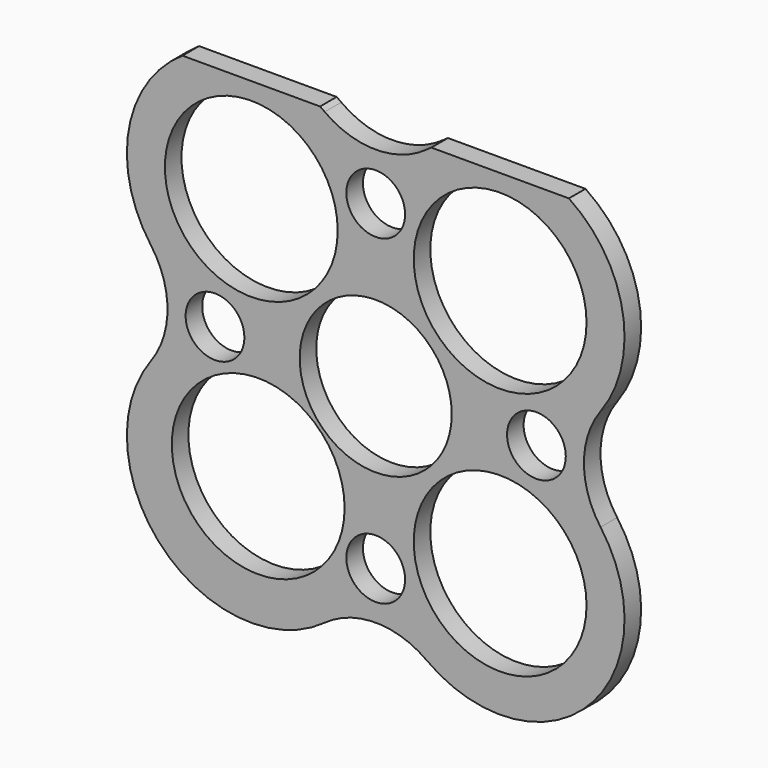
from build123d import *

# Parameters (mm, degrees)
F0_R     = 12.5
F0_R_2   = 4.25
F0_R_3   = 11
F1_DEPTH = 3


with BuildPart() as f1:
    # F0 (on Front) → F1 (new body)
    with BuildSketch(Plane.XZ):
        with BuildLine():
            ThreePointArc((32.531102, -7.377049), (30.122145, 0), (32.531102, 7.377049))
            ThreePointArc((32.531102, 7.377049), (35.719014, 21.168052), (27.949874, 33))
            Line((27.949874, 33), (8.050126, 33))
            ThreePointArc((8.050126, 33), (7.710916, 32.769386), (7.377049, 32.531102))
            ThreePointArc((7.377049, 32.531102), (0, 30.122145), (-7.377049, 32.531102))
            ThreePointArc((-7.377049, 32.531102), (-7.710916, 32.769386), (-8.050126, 33))
            Line((-8.050126, 33), (-27.949874, 33))
            ThreePointArc((-27.949874, 33), (-35.719014, 21.168052), (-32.531102, 7.377049))
            ThreePointArc((-32.531102, 7.377049), (-30.122145, 0), (-32.531102, -7.377049))
            ThreePointArc((-32.531102, -7.377049), (-30.727922, -30.727922), (-7.377049, -32.531102))
            ThreePointArc((-7.377049, -32.531102), (0, -30.122145), (7.377049, -32.531102))
            ThreePointArc((7.377049, -32.531102), (30.727922, -30.727922), (32.531102, -7.377049))
        make_face()
        with Locations((-17, -17)):
            Circle(F0_R, mode=Mode.SUBTRACT)
        with Locations((0, -23.25)):
            Circle(F0_R_2, mode=Mode.SUBTRACT)
        with Locations((18, -18)):
            Circle(F0_R, mode=Mode.SUBTRACT)
        with Locations((-23.25, 0)):
            Circle(F0_R_2, mode=Mode.SUBTRACT)
        with Locations((-18, 18)):
            Circle(F0_R, mode=Mode.SUBTRACT)
        Circle(F0_R_3, mode=Mode.SUBTRACT)
        with Locations((23.25, 0)):
            Circle(F0_R_2, mode=Mode.SUBTRACT)
        with Locations((0, 23.25)):
            Circle(F0_R_2, mode=Mode.SUBTRACT)
        with Locations((18, 18)):
            Circle(F0_R, mode=Mode.SUBTRACT)
    extrude(amount=F1_DEPTH)


solid = f1.part
